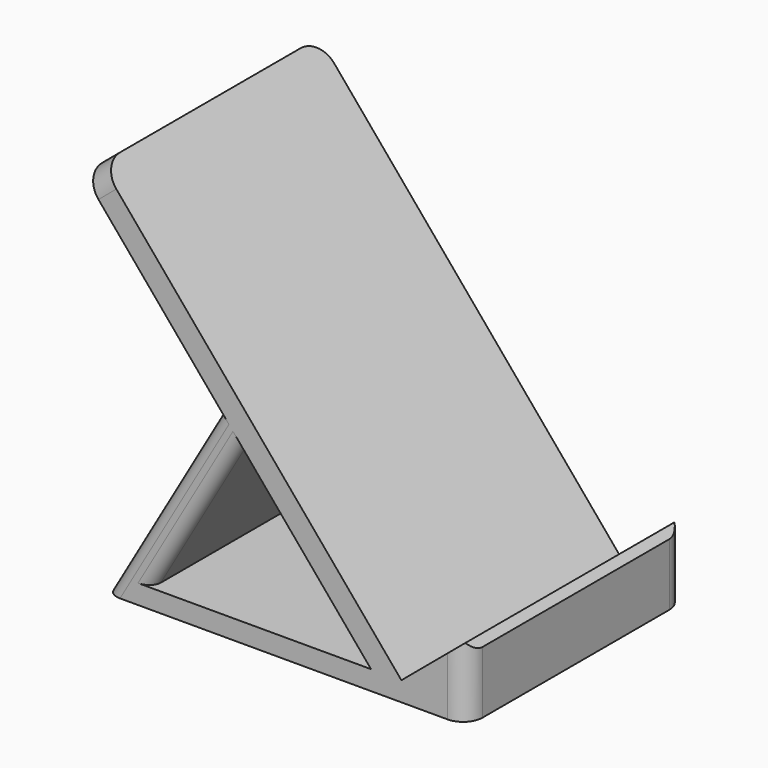
from build123d import *

# Parameters (mm, degrees)
PAD_DEPTH   = 70
FILLET_R    = 6
FILLET001_R = 5
FILLET002_R = 3


with BuildPart() as part:
    # Sketch → Pad (new body)
    with BuildSketch(Plane.XZ):
        Polygon((0, 0), (0, 16), (-1.557161, 17.855752), (-16.87805, 5), (-94.012563, 96.925333), (-98.60883, 93.068608), (-63.255511, 50.936163), (-92.663519, 0), align=None)
        Polygon((-58.11321, 44.807808), (-24.688255, 4.973497), (-81.11156, 4.973497), align=None, mode=Mode.SUBTRACT)
    extrude(amount=PAD_DEPTH)

    # Fillet
    fillet_edges = [part.edges().sort_by_distance(p)[0] for p in [
        (-96.310696, -70, 94.99697),
        (-96.310696, 0, 94.99697),
    ]]
    fillet(fillet_edges, radius=FILLET_R)

    # Fillet001
    fillet001_edges = [part.edges().sort_by_distance(p)[0] for p in [
        (0, -70, 8),
        (0, 0, 8),
    ]]
    fillet(fillet001_edges, radius=FILLET001_R)

    # Fillet002
    fillet002_edges = [part.edges().sort_by_distance(p)[0] for p in [
        (-69.612385, -70, 24.890652),
        (-77.959515, -70, 25.468082),
        (-77.959515, 0, 25.468082),
        (-69.612385, 0, 24.890652),
    ]]
    fillet(fillet002_edges, radius=FILLET002_R)


solid = part.part
